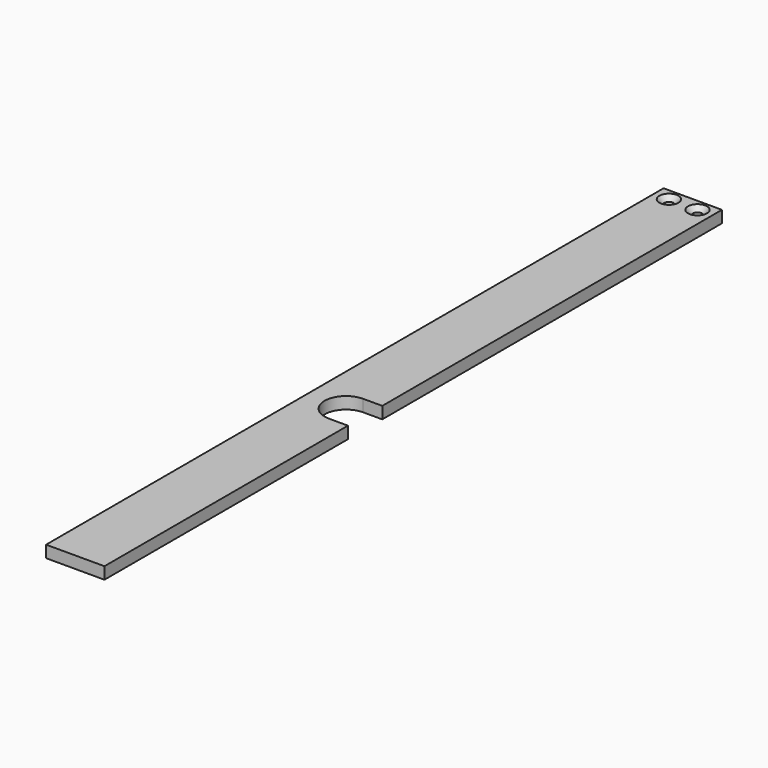
from build123d import *

# Parameters (mm, degrees)
PAD027_DEPTH    = 5
SKETCH059_R     = 2
POCKET037_DEPTH = 5.001
CHAMFER021_SIZE = 2


with BuildPart() as part:
    # Sketch054 → Pad027 (new body)
    with BuildSketch(Plane.XY):
        with BuildLine():
            Line((8.676816, 19.977719), (8.676816, -107.8))
            Line((8.676816, -107.8), (-15.823184, -107.8))
            Line((-15.823184, -107.8), (-15.823184, 216.2))
            Line((-15.823184, 216.2), (8.676816, 216.2))
            Line((8.676816, 216.2), (8.676816, 37.977719))
            Line((0.676816, 37.977719), (8.676816, 37.977719))
            ThreePointArc((0.676816, 37.977719), (-8.323184, 28.977719), (0.676816, 19.977719))
            Line((0.676816, 19.977719), (8.676816, 19.977719))
        make_face()
    extrude(amount=PAD027_DEPTH)

    # Sketch059 (on Face10 of Pad027) → Pocket037 (cut, through all)
    with BuildSketch(Plane.XY.offset(5)):
        with Locations((-9.573184, 211.2)):
            Circle(SKETCH059_R)
        with Locations((2.426816, 211.2)):
            Circle(SKETCH059_R)
    extrude(amount=-POCKET037_DEPTH, mode=Mode.SUBTRACT)

    # Chamfer021
    chamfer021_edges = [part.edges().sort_by_distance(p)[0] for p in [
        (-11.573184, 211.2, 5),
        (0.426816, 211.2, 5),
    ]]
    chamfer(chamfer021_edges, length=CHAMFER021_SIZE)


with BuildPart() as part_1:
    # Body020 placement: moved
    add(part.part.moved(Location((-100, 0, 15.5))))


with BuildPart() as part_2:
    # Clone002 placement: moved
    add(part_1.part.moved(Location((195.823184, 107.8, -20.5))))


solid = part_2.part
